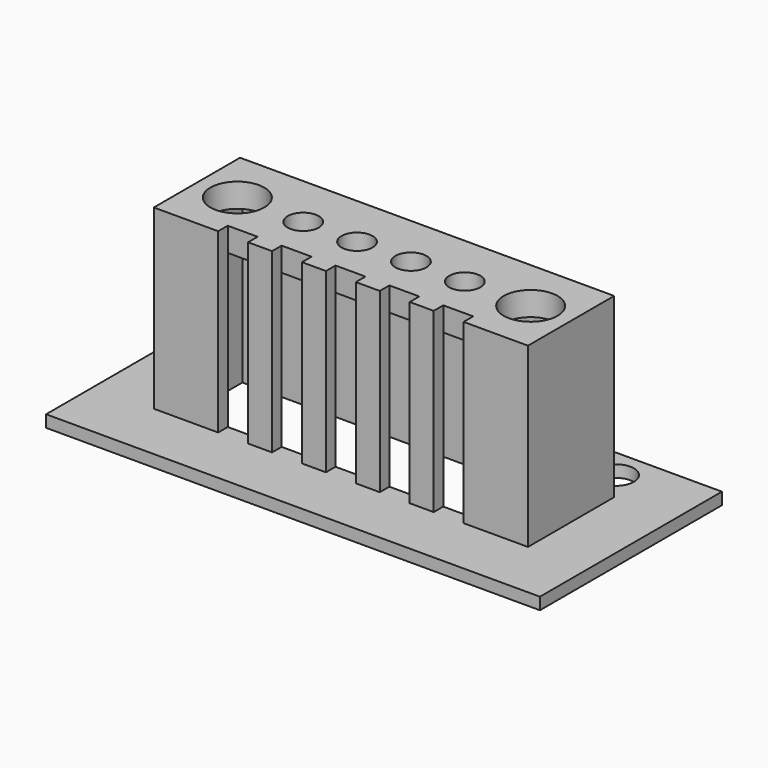
from build123d import *

# Parameters (mm, degrees)
F1_DEPTH = 31.6
F2_START = 27.6
F2_DEPTH = 4
F0_R     = 3.05
F3_DEPTH = 2
F4_W     = 2.5
F4_H     = 29.6
F5_DEPTH = 2


with BuildPart() as f1:
    # F0 (on Top) → F1 (new body)
    with BuildSketch(Plane.XY):
        Polygon((31.25, -9), (31.25, 0), (29.25, 0), (29.25, -7), (-29.25, -7), (-29.25, 0), (-31.25, 0), (-31.25, -9), align=None)
        Polygon((31.25, 0), (31.25, 9), (-31.25, 9), (-31.25, 0), (-29.25, 0), (-29.25, 7), (29.25, 7), (29.25, 0), align=None)
    extrude(amount=F1_DEPTH)

    # F0 (on Top) → F2 (join)
    with BuildSketch(Plane.XY.offset(F2_START)):
        with BuildLine():
            Line((29, 0), (29.25, 0))
            Line((29.25, 0), (29.25, 7))
            Line((29.25, 7), (-29.25, 7))
            Line((-29.25, 7), (-29.25, 0))
            Line((-29.25, 0), (-29, 0))
            ThreePointArc((-29, 0), (-24.5, 4.5), (-20, 0))
            Line((-20, 0), (-16.1, 0))
            ThreePointArc((-16.1, 0), (-13.5, 2.6), (-10.9, 0))
            Line((-10.9, 0), (-7.1, 0))
            ThreePointArc((-7.1, 0), (-4.5, 2.6), (-1.9, 0))
            Line((-1.9, 0), (0, 0))
            Line((0, 0), (1.9, 0))
            ThreePointArc((1.9, 0), (4.5, 2.6), (7.1, 0))
            Line((7.1, 0), (10.9, 0))
            ThreePointArc((10.9, 0), (13.5, 2.6), (16.1, 0))
            Line((16.1, 0), (20, 0))
            ThreePointArc((20, 0), (24.5, 4.5), (29, 0))
        make_face()
        with BuildLine():
            Line((29.25, -7), (29.25, 0))
            Line((29.25, 0), (29, 0))
            ThreePointArc((29, 0), (24.5, -4.5), (20, 0))
            Line((20, 0), (16.1, 0))
            ThreePointArc((16.1, 0), (13.5, -2.6), (10.9, 0))
            Line((10.9, 0), (7.1, 0))
            ThreePointArc((7.1, 0), (4.5, -2.6), (1.9, 0))
            Line((1.9, 0), (0, 0))
            Line((0, 0), (-1.9, 0))
            ThreePointArc((-1.9, 0), (-4.5, -2.6), (-7.1, 0))
            Line((-7.1, 0), (-10.9, 0))
            ThreePointArc((-10.9, 0), (-13.5, -2.6), (-16.1, 0))
            Line((-16.1, 0), (-20, 0))
            ThreePointArc((-20, 0), (-24.5, -4.5), (-29, 0))
            Line((-29, 0), (-29.25, 0))
            Line((-29.25, 0), (-29.25, -7))
            Line((-29.25, -7), (29.25, -7))
        make_face()
    extrude(amount=F2_DEPTH)

    # F0 (on Top) → F3 (join)
    with BuildSketch(Plane.XY):
        Polygon((-41.25, 19), (-41.25, 14), (-41.25, -19), (41.25, -19), (41.25, 19), align=None)
        with Locations((-27.5, 14)):
            Circle(F0_R, mode=Mode.SUBTRACT)
        Polygon((-31.25, 9), (31.25, 9), (31.25, 0), (31.25, -9), (-31.25, -9), (-31.25, 0), align=None, mode=Mode.SUBTRACT)
        with Locations((27.5, 14)):
            Circle(F0_R, mode=Mode.SUBTRACT)
    extrude(amount=F3_DEPTH)

    # F4 (on face) → F5 (cut)
    with BuildSketch(Plane.XZ.offset(9)):
        with Locations((-1.25, 16.8)):
            Rectangle(F4_W, F4_H)
        with Locations((1.25, 16.8)):
            Rectangle(F4_W, F4_H)
        with Locations((-19.25, 16.8)):
            Rectangle(F4_W, F4_H)
        with Locations((-16.75, 16.8)):
            Rectangle(F4_W, F4_H)
        with Locations((-10.25, 16.8)):
            Rectangle(F4_W, F4_H)
        with Locations((-7.75, 16.8)):
            Rectangle(F4_W, F4_H)
        with Locations((10.25, 16.8)):
            Rectangle(F4_W, F4_H)
        with Locations((7.75, 16.8)):
            Rectangle(F4_W, F4_H)
        with Locations((16.75, 16.8)):
            Rectangle(F4_W, F4_H)
        with Locations((19.25, 16.8)):
            Rectangle(F4_W, F4_H)
    extrude(amount=-F5_DEPTH, mode=Mode.SUBTRACT)


solid = f1.part
